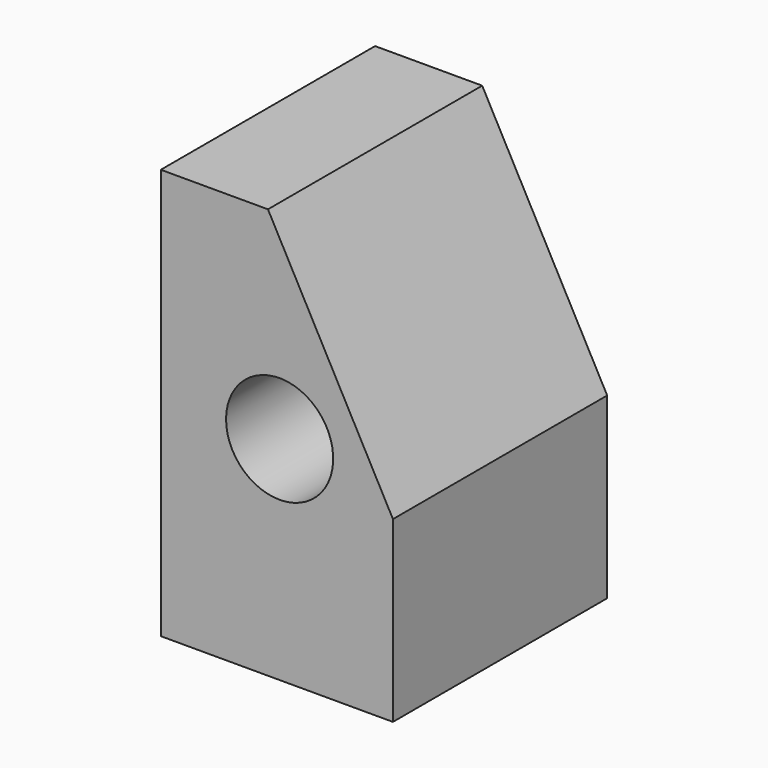
from build123d import *

# Parameters (mm, degrees)
F1_DEPTH = 15
F3_D     = 6


with BuildPart() as f1:
    # F0 (on Front) → F1 (new body)
    with BuildSketch(Plane.XZ):
        Polygon((0, 23), (0, 0), (13, 0), (13, 10), (6, 23), align=None)
    extrude(amount=F1_DEPTH)

    # F3 (through all)
    with Locations(Plane.XZ.offset(15)):
        with Locations((6.653562, 11.88922)):
            Hole(F3_D / 2)


solid = f1.part
